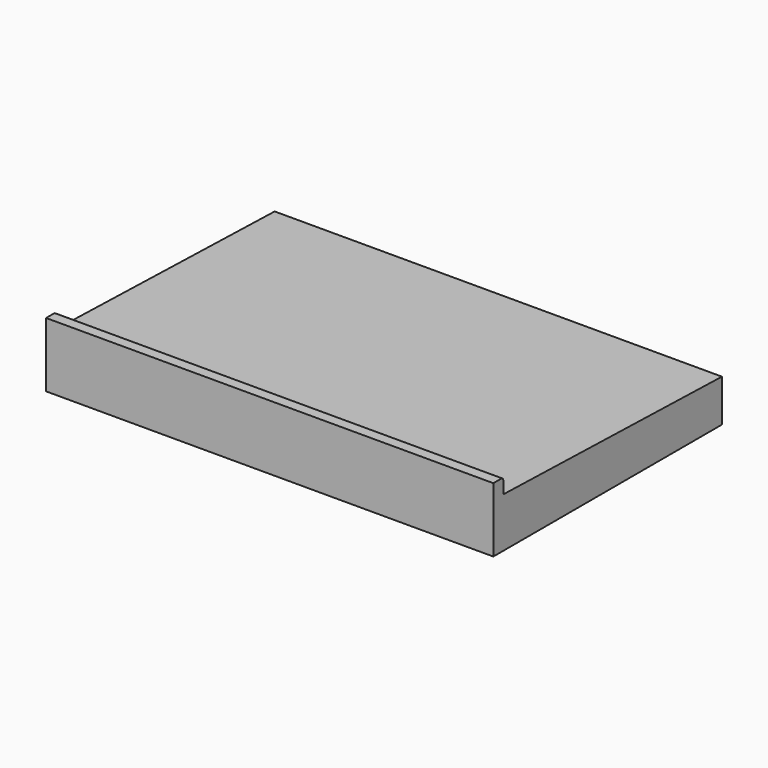
from build123d import *

# Parameters (mm, degrees)
F1_DEPTH = 180
F2_W     = 60
F2_H     = 6
F2_H_2   = 20
F3_DEPTH = 5
F4_R     = 1
F5_DEPTH = 60
F6_DEPTH = 60


with BuildPart() as f1:
    # F0 (on Right) → F1 (new body)
    with BuildSketch(Plane.YZ):
        Polygon((105.484205862, 22.4625121504), (-4.515794138, 25.4625121504), (-4.515794138, 5.4625121504), (105.484205862, 5.4625121504), align=None)
    extrude(amount=-F1_DEPTH)

    # F2 (on face) → F3 (join)
    with BuildSketch(Plane.XZ.offset(4.515794138)):
        with Locations((-90, 28.4625121504)):
            Rectangle(F2_W, F2_H)
        with Locations((-90, 15.4625121504)):
            Rectangle(F2_W, F2_H_2)
    extrude(amount=F3_DEPTH)

    # F4
    f4_edges = [f1.edges().sort_by_distance(p)[0] for p in [
        (-90, -4.515794, 31.462512),
    ]]
    fillet(f4_edges, radius=F4_R)

    # F5 (add, through all): a face of the model
    f5_faces = [f1.faces().sort_by_distance(p)[0] for p in [
        (-60, -7.0195585786, 18.4413858238),
    ]]
    extrude(f5_faces, amount=F5_DEPTH)

    # F6 (add, through all): a face of the model
    f6_faces = [f1.faces().sort_by_distance(p)[0] for p in [
        (-120, -7.0195585786, 18.4413858238),
    ]]
    extrude(f6_faces, amount=F6_DEPTH)


solid = f1.part
